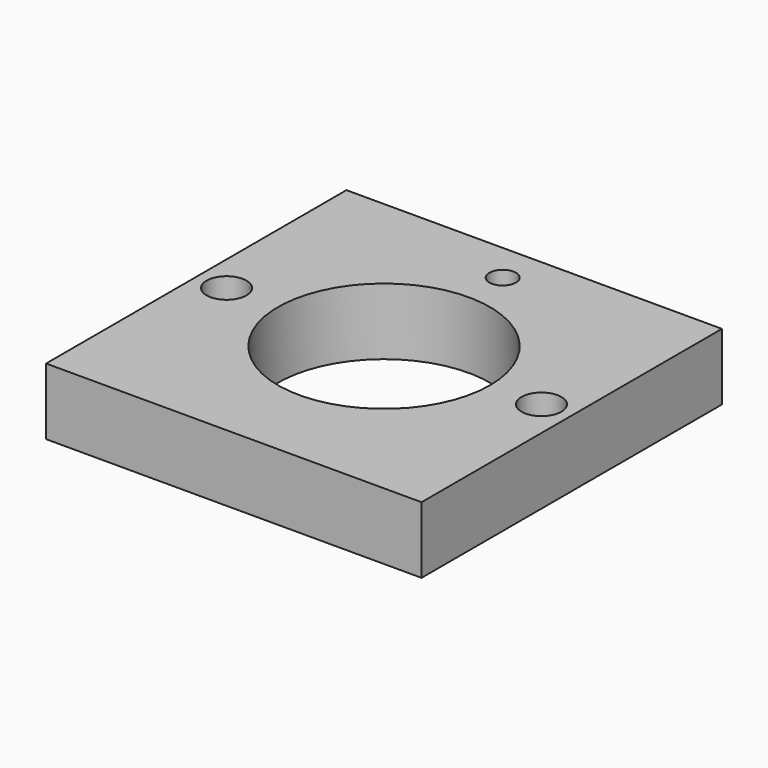
from build123d import *

# Parameters (mm, degrees)
F0_W     = 62
F0_H     = 62
F1_DEPTH = 11
F3_D     = 6.6
F5_D     = 4.4
F6_R     = 17.5
F7_DEPTH = 11.001


with BuildPart() as f1:
    # F0 (on Top) → F1 (new body)
    with BuildSketch(Plane.XY):
        with Locations((31, 31)):
            Rectangle(F0_W, F0_H)
    extrude(amount=F1_DEPTH)

    # F3 (through all)
    with Locations(Plane.XY.offset(11)):
        with Locations((5, 31), (57, 31)):
            Hole(F3_D / 2)

    # F5 (through all)
    with Locations(Plane.XY.offset(11)):
        with Locations((31, 55.5)):
            Hole(F5_D / 2)

    # F6 (on face) → F7 (cut, through all)
    with BuildSketch(Plane.XY.offset(11)):
        with Locations((31, 31)):
            Circle(F6_R)
    extrude(amount=-F7_DEPTH, mode=Mode.SUBTRACT)


solid = f1.part
